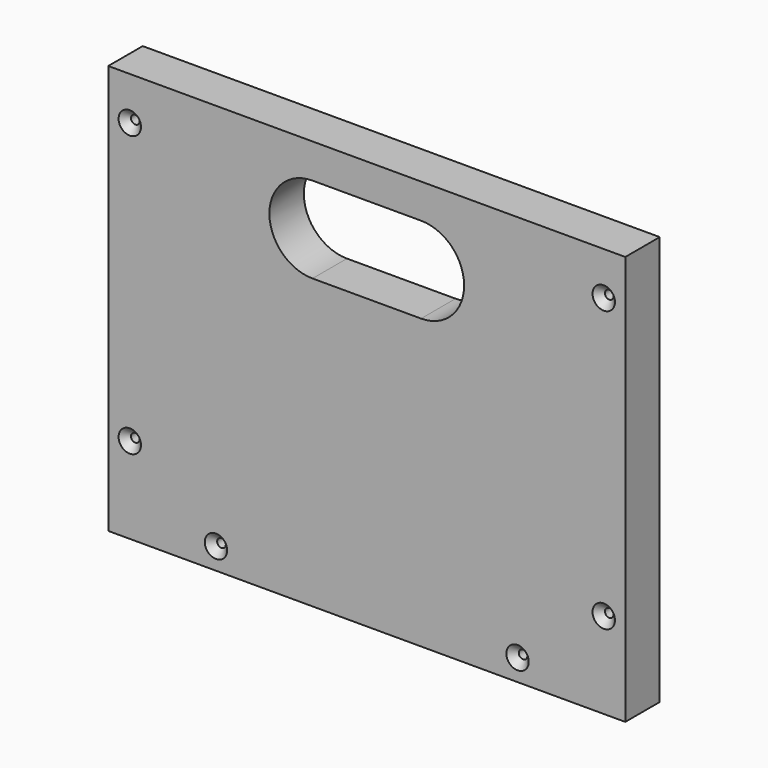
from build123d import *

# Parameters (mm, degrees)
F0_W           = 152.4
F0_H           = 120.65
F1_DEPTH       = 12.7
F3_D           = 2.54
F3_CSINK_D     = 6.604
F3_CSINK_ANGLE = 90
F5_DEPTH       = 12.701


with BuildPart() as f1:
    # F0 (on Front) → F1 (new body)
    with BuildSketch(Plane.XZ):
        with Locations((0, 3.175)):
            Rectangle(F0_W, F0_H)
    extrude(amount=F1_DEPTH)

    # F3 (through all)
    with Locations(Plane.XZ.offset(12.7)):
        with Locations((-69.85, 50.8), (-69.85, -31.75), (-44.45, -50.8), (44.45, -50.8), (69.85, -31.75), (69.85, 50.8)):
            CounterSinkHole(F3_D / 2, F3_CSINK_D / 2, counter_sink_angle=F3_CSINK_ANGLE)

    # F4 (on face) → F5 (cut, through all)
    with BuildSketch(Plane.XZ.offset(12.7)):
        with BuildLine():
            Line((0, 53.34), (-16, 53.34))
            ThreePointArc((-16, 53.34), (-28.7, 40.64), (-16, 27.94))
            Line((-16, 27.94), (0, 27.94))
            Line((0, 27.94), (16, 27.94))
            ThreePointArc((16, 27.94), (28.7, 40.64), (16, 53.34))
            Line((16, 53.34), (0, 53.34))
        make_face()
    extrude(amount=-F5_DEPTH, mode=Mode.SUBTRACT)


solid = f1.part
